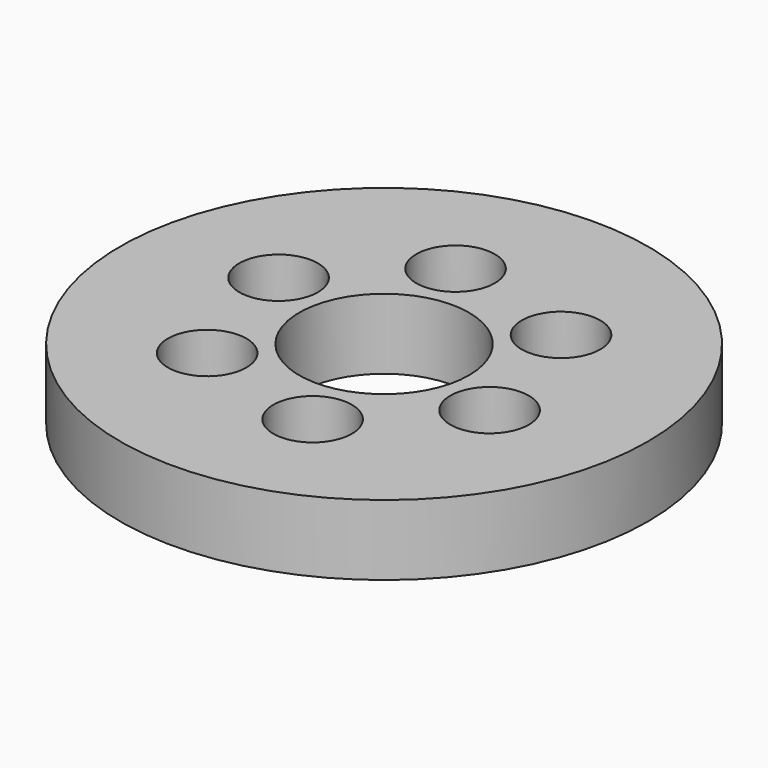
from build123d import *

# Parameters (mm, degrees)
F0_R     = 45.212
F1_DEPTH = 12.065
F2_R     = 2.5908
F3_DEPTH = 25.4
F4_R     = 14.5415
F5_DEPTH = 25.4
F6_R     = 6.731
F7_DEPTH = 9.525


with BuildPart() as f1:
    # F0 (on Top) → F1 (new body)
    with BuildSketch(Plane.XY):
        Circle(F0_R)
    extrude(amount=F1_DEPTH)

    # F2 (on face) → F3 (cut)
    with BuildSketch(Plane.XY.offset(12.065)):
        with Locations((-6.163129, 23.001109)):
            Circle(F2_R)
        with Locations((-23.001109, 6.163129)):
            Circle(F2_R)
        with Locations((-16.83798, -16.83798)):
            Circle(F2_R)
        with Locations((6.163129, -23.001109)):
            Circle(F2_R)
        with Locations((23.001109, -6.163129)):
            Circle(F2_R)
        with Locations((16.83798, 16.83798)):
            Circle(F2_R)
    extrude(amount=-F3_DEPTH, mode=Mode.SUBTRACT)

    # F4 (on face) → F5 (cut)
    with BuildSketch(Plane.XY.offset(12.065)):
        Circle(F4_R)
    extrude(amount=-F5_DEPTH, mode=Mode.SUBTRACT)

    # F6 (on face) → F7 (cut)
    with BuildSketch(Plane.XY.offset(12.065)):
        with Locations((-6.163129, 23.001109)):
            Circle(F6_R)
        with Locations((16.83798, 16.83798)):
            Circle(F6_R)
        with Locations((23.001109, -6.163129)):
            Circle(F6_R)
        with Locations((6.163129, -23.001109)):
            Circle(F6_R)
        with Locations((-16.83798, -16.83798)):
            Circle(F6_R)
        with Locations((-23.001109, 6.163129)):
            Circle(F6_R)
    extrude(amount=-F7_DEPTH, mode=Mode.SUBTRACT)


solid = f1.part
